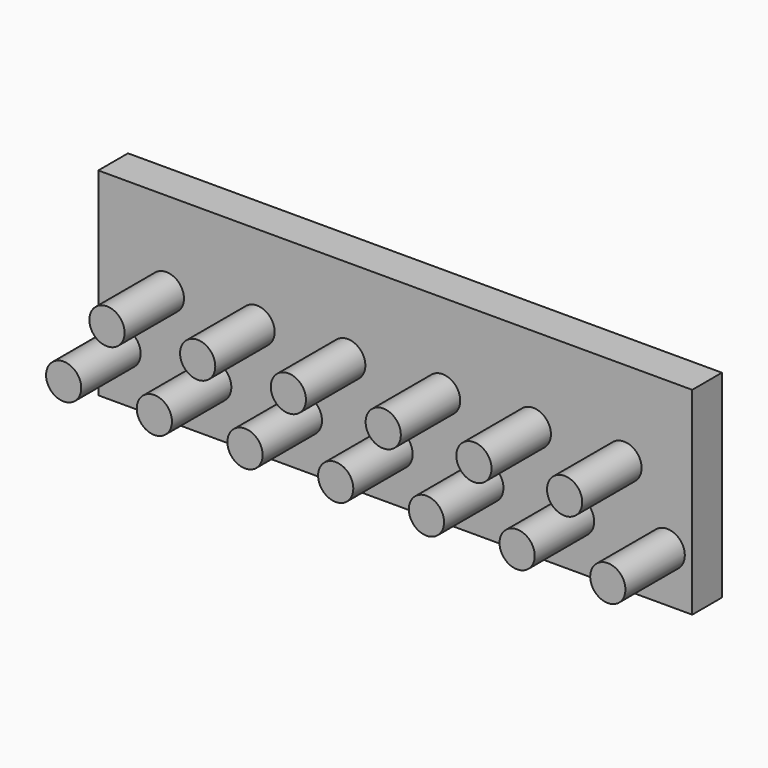
from build123d import *

# Parameters (mm, degrees)
F0_W     = 304.8
F0_H     = 101.6
F1_DEPTH = 19.05
F2_R     = 9.03449
F3_DEPTH = 38.1


with BuildPart() as f1:
    # F0 (on Front) → F1 (new body)
    with BuildSketch(Plane.XZ):
        Rectangle(F0_W, F0_H)
    extrude(amount=-F1_DEPTH)

    # F2 (on face) → F3 (join)
    with BuildSketch(Plane.XZ):
        with Locations((-93.156327, -24.950264)):
            Circle(F2_R)
        with Locations((-139.7, -24.950264)):
            Circle(F2_R)
        with Locations((-117.471128, 7.235738)):
            Circle(F2_R)
        with Locations((-70.927455, 7.235738)):
            Circle(F2_R)
        with Locations((-46.623527, -24.950264)):
            Circle(F2_R)
        with Locations((-24.383784, 7.235738)):
            Circle(F2_R)
        with Locations((-0.090727, -24.950264)):
            Circle(F2_R)
        with Locations((70.849538, 7.109133)):
            Circle(F2_R)
        with Locations((139.56449, -25.199643)):
            Circle(F2_R)
        with Locations((46.488165, -25.033411)):
            Circle(F2_R)
        with Locations((24.305941, 7.192259)):
            Circle(F2_R)
        with Locations((117.393136, 7.026007)):
            Circle(F2_R)
        with Locations((93.020891, -25.116518)):
            Circle(F2_R)
    extrude(amount=F3_DEPTH)


solid = f1.part
